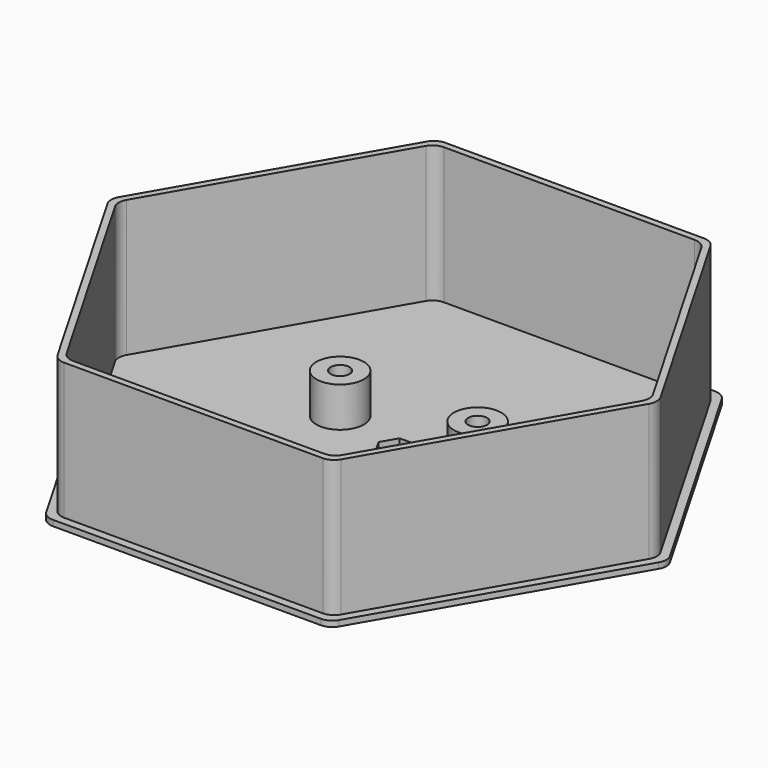
from build123d import *

# Parameters (mm, degrees)
F1_DEPTH  = 0.762
F2_R      = 1.905
F4_DEPTH  = 19.05
F5_R      = 1.905
F7_DEPTH  = 25.4
F8_R      = 1.905
F12_DEPTH = 25.4
F11_R     = 3.175
F11_R_2   = 1.27
F13_DEPTH = 5.334


with BuildPart() as f1:
    # F0 (on Top) → F1 (new body)
    with BuildSketch(Plane.XY):
        Polygon((19.05, 32.995568), (-19.05, 32.995568), (-38.1, 0), (-19.05, -32.995568), (19.05, -32.995568), (38.1, 0), align=None)
    extrude(amount=F1_DEPTH)

    # F2
    f2_edges = [f1.edges().sort_by_distance(p)[0] for p in [
        (38.1, 0, 0.381),
        (19.05, 32.995568, 0.381),
        (-19.05, 32.995568, 0.381),
        (-38.1, 0, 0.381),
        (-19.05, -32.995568, 0.381),
        (19.05, -32.995568, 0.381),
    ]]
    fillet(f2_edges, radius=F2_R)


with BuildPart() as f4:
    # F3 (on Top) → F4 (new body)
    with BuildSketch(Plane.XY):
        Polygon((18.415, 31.895716), (-18.415, 31.895716), (-36.83, 0), (-18.415, -31.895716), (18.415, -31.895716), (36.83, 0), align=None)
    extrude(amount=F4_DEPTH)

    # F5
    f5_edges = [f4.edges().sort_by_distance(p)[0] for p in [
        (-18.415, -31.895716, 9.525),
        (18.415, -31.895716, 9.525),
        (36.83, 0, 9.525),
        (-36.83, 0, 9.525),
        (18.415, 31.895716, 9.525),
        (-18.415, 31.895716, 9.525),
    ]]
    fillet(f5_edges, radius=F5_R)


with BuildPart() as f7:
    # F6 (on Top) → F7 (new body)
    with BuildSketch(Plane.XY):
        Polygon((17.907, 31.015834), (-17.907, 31.015834), (-35.814, 0), (-17.907, -31.015834), (17.907, -31.015834), (35.814, 0), align=None)
    extrude(amount=F7_DEPTH)

    # F8
    f8_edges = [f7.edges().sort_by_distance(p)[0] for p in [
        (-17.907, -31.015834, 12.7),
        (17.907, -31.015834, 12.7),
        (35.814, 0, 12.7),
        (-35.814, 0, 12.7),
        (17.907, 31.015834, 12.7),
        (-17.907, 31.015834, 12.7),
    ]]
    fillet(f8_edges, radius=F8_R)


with BuildPart() as f7_1:
    # F9: moved
    add(f7.part.moved(Location((0, 0, 0.762))))


with BuildPart() as f4_1:
    add(f4.part)

    # F10: cut F7
    add(f7_1.part, mode=Mode.SUBTRACT)


with BuildPart() as f12_tool:
    # F11 (on face) → F12 (new body)
    with BuildSketch(Plane.XY.offset(0.762)):
        Polygon((-1.175437, 0), (1.175437, 0), (2.350874, 2.035916), (1.175437, 4.071832), (-1.175437, 4.071832), (-2.350874, 2.035916), align=None)
    extrude(amount=-F12_DEPTH)


with BuildPart() as f1_1:
    add(f1.part)

    # F12: cut by f12_tool
    add(f12_tool.part, mode=Mode.SUBTRACT)



with BuildPart() as f4_2:
    add(f4_1.part)

    # F12: cut by f12_tool
    add(f12_tool.part, mode=Mode.SUBTRACT)


with BuildPart() as f1_2:
    add(f1_1.part)

    add(f4_2.part)  # F13 merges F4
    # F11 (on face) → F13 (join)
    with BuildSketch(Plane.XY.offset(0.762)):
        with Locations((-9.2075, 4.163166)):
            Circle(F11_R)
        with Locations((-9.2075, 4.163166)):
            Circle(F11_R_2, mode=Mode.SUBTRACT)
        with Locations((9.2075, 4.163166)):
            Circle(F11_R)
        with Locations((9.2075, 4.163166)):
            Circle(F11_R_2, mode=Mode.SUBTRACT)
        with Locations((9.2075, -27.586834)):
            Circle(F11_R)
        with Locations((9.2075, -27.586834)):
            Circle(F11_R_2, mode=Mode.SUBTRACT)
        with Locations((-9.2075, -27.586834)):
            Circle(F11_R)
        with Locations((-9.2075, -27.586834)):
            Circle(F11_R_2, mode=Mode.SUBTRACT)
    extrude(amount=F13_DEPTH)


solid = f1_2.part
